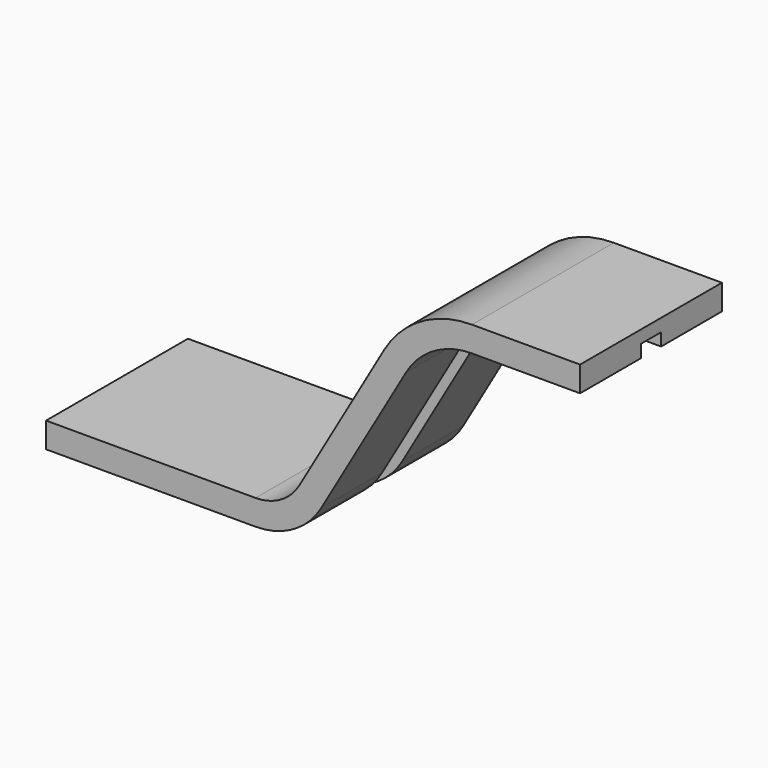
from build123d import *

# Parameters (mm, degrees)
F3_W     = 10
F3_H     = 5
F4_DEPTH = 25


with BuildPart() as f2:
    # F2: sweep along a path in F0
    with BuildLine(Plane.XZ) as f2_path:
        Line((0, 0), (82.679492, 0))
        ThreePointArc((82.679492, 0), (97.679492, 4.019238), (108.660254, 15))
        Line((108.660254, 15), (142.158579, 73.020801))
        ThreePointArc((142.158579, 73.020801), (153.139341, 84.001563), (168.139341, 88.020801))
        Line((168.139341, 88.020801), (210.818833, 88.020801))
    # F1 (on Right) → F2 (sweep)
    with BuildSketch(Plane.YZ):
        Polygon((5, 0), (35, 0), (35, 10), (-35, 10), (-35, 0), (-5, 0), (-5, 5), (5, 5), align=None)
    sweep(path=f2_path.line)


with BuildPart() as f4:
    # F3 (on face) → F4 (new body)
    with BuildSketch(Plane(origin=(0, 0, 0), x_dir=(0, -1, 0), z_dir=(-1, 0, 0))):
        with Locations((0, 2.5)):
            Rectangle(F3_W, F3_H)
    extrude(amount=-F4_DEPTH)


solid = Compound([f2.part, f4.part])
